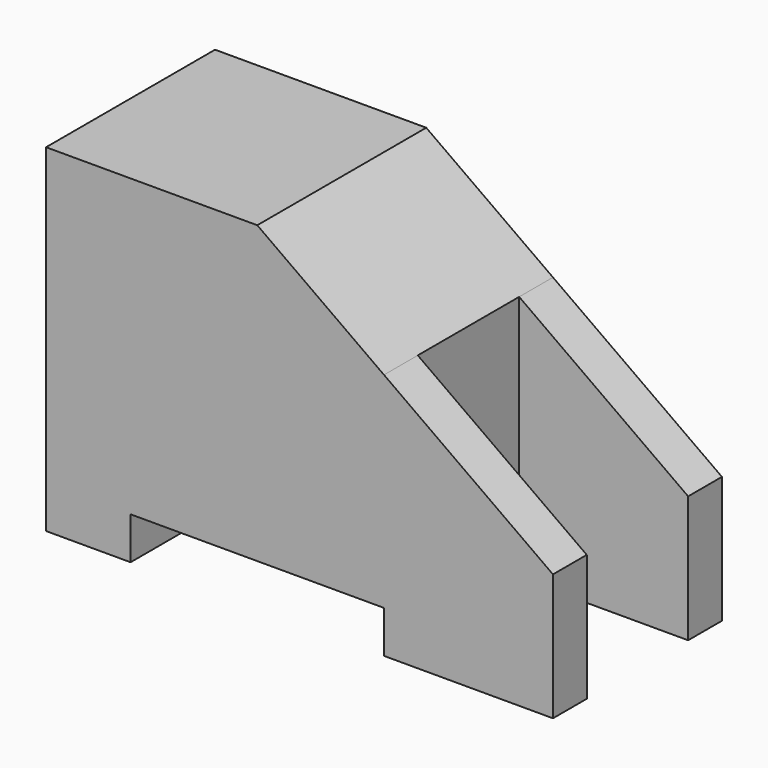
from build123d import *

# Parameters (mm, degrees)
F1_DEPTH = 2.5
F2_DEPTH = 10
F4_DEPTH = 2.5


with BuildPart() as f1:
    # F0 (on Front) → F1 (new body)
    with BuildSketch(Plane.XZ):
        Polygon((0, 20), (0, 0), (5, 0), (5, 2.5), (20, 2.5), (20, 14.6428571429), (12.5, 20), align=None)
        Polygon((30, 7.5), (20, 14.6428571429), (20, 2.5), (20, 0), (30, 0), align=None)
    extrude(amount=F1_DEPTH)

    # F0 (on Front) → F2 (join)
    with BuildSketch(Plane.XZ):
        Polygon((0, 20), (0, 0), (5, 0), (5, 2.5), (20, 2.5), (20, 14.6428571429), (12.5, 20), align=None)
    extrude(amount=F2_DEPTH)

    # F3 (on face) → F4 (join)
    with BuildSketch(Plane.XZ.offset(10)):
        Polygon((20, 2.5), (20, 14.6428571429), (12.5, 20), (0, 20), (0, 0), (5, 0), (5, 2.5), align=None)
        Polygon((30, 7.5), (20, 14.6428571429), (20, 2.5), (20, 0), (30, 0), align=None)
    extrude(amount=F4_DEPTH)


solid = f1.part
